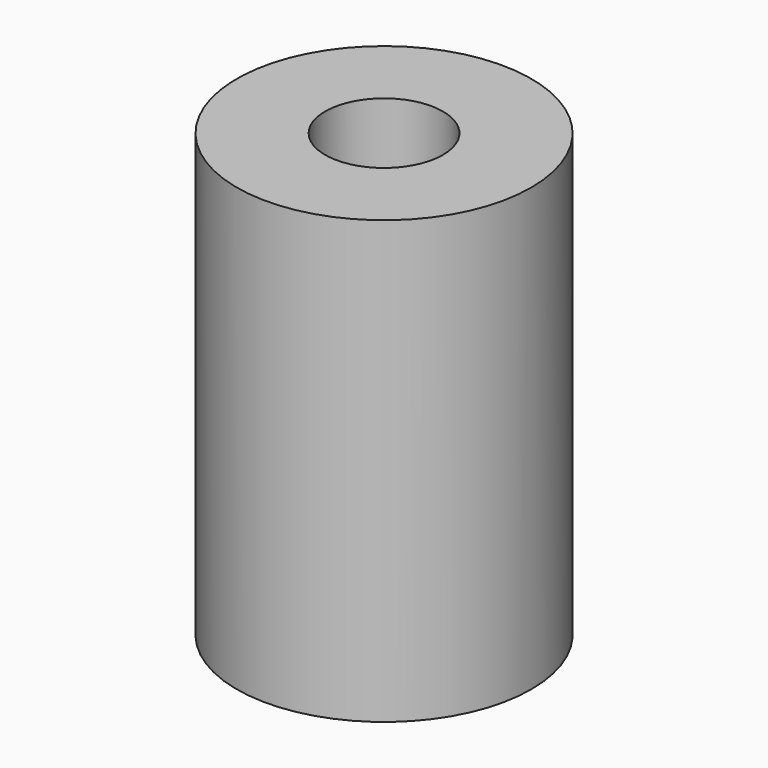
from build123d import *

# Parameters (mm, degrees)
CYLINDER003_R     = 0.4
CYLINDER003_DEPTH = 3
CYLINDER_R        = 1
CYLINDER_DEPTH    = 3


with BuildPart() as cylinder003:
    # Cylinder003 → Cylinder003 (new body)
    with BuildSketch(Plane(origin=(8, -25.5, -4), x_dir=(1, 0, 0), z_dir=(0, 0, 1))):
        Circle(CYLINDER003_R)
    extrude(amount=CYLINDER003_DEPTH)


with BuildPart() as cut005:
    # Cylinder → Cylinder (new body)
    with BuildSketch(Plane(origin=(8, -25.5, -4), x_dir=(1, 0, 0), z_dir=(0, 0, 1))):
        Circle(CYLINDER_R)
    extrude(amount=CYLINDER_DEPTH)

    # Cut005: cut Cylinder003
    add(cylinder003.part, mode=Mode.SUBTRACT)


solid = cut005.part
